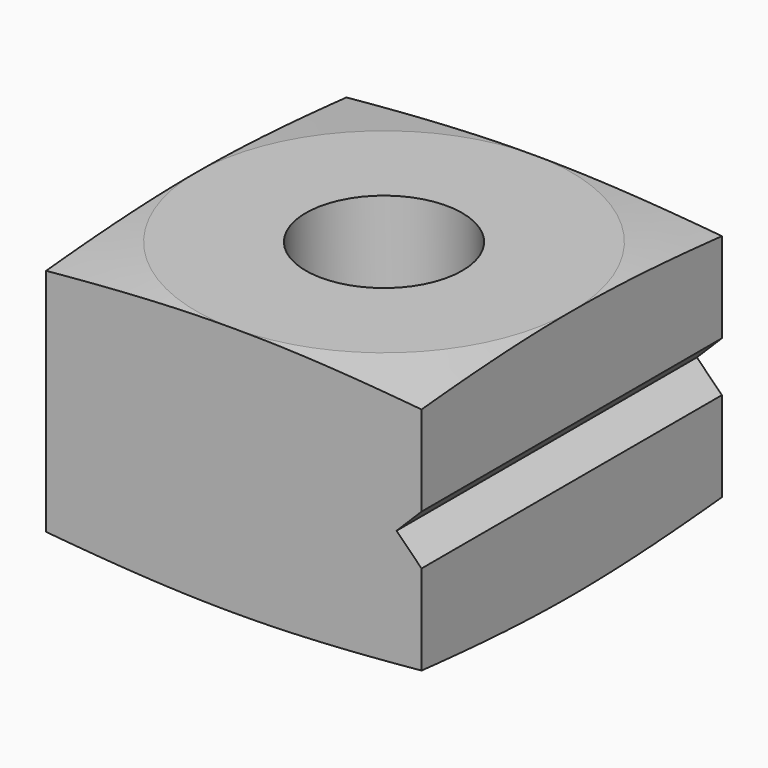
from build123d import *

# Parameters (mm, degrees)
F0_W      = 19.05
F0_H      = 19.05
F1_DEPTH  = 12.7
F2_R      = 3.96875
F3_DEPTH  = 12.701
F12_DEPTH = 19.05


with BuildPart() as f1:
    # F0 (on Top) → F1 (new body)
    with BuildSketch(Plane.XY):
        with Locations((-9.525, 9.525)):
            Rectangle(F0_W, F0_H)
    extrude(amount=F1_DEPTH)

    # F2 (on face) → F3 (cut, through all)
    with BuildSketch(Plane.XY.offset(12.7)):
        with Locations((-9.525, 9.525)):
            Circle(F2_R)
    extrude(amount=-F3_DEPTH, mode=Mode.SUBTRACT)

    # F7: sweep along a path in F4
    with BuildLine(Plane.XY.offset(12.7)) as f7_path:
        CenterArc((-9.525, 9.525), 9.525, 0, 360)
    # F6 (on mid) → F7 (sweep, cut)
    with BuildSketch(Plane.XZ.offset(-9.525)):
        Polygon((-24.6209054321, 11.966576386), (-19.05, 12.7), (-24.6209054321, 13.433423614), align=None)
    sweep(path=f7_path.line, mode=Mode.SUBTRACT)

    # F9 (on mid) → F10 (revolve, cut)
    with BuildSketch(Plane.XZ.offset(-9.525)):
        Polygon((8.2884986839, 0), (0, 0), (8.2884986839, -1.091201553), align=None)
        Polygon((8.2884986839, 1.091201553), (0, 0), (8.2884986839, 0), align=None)
    revolve(axis=Axis((-9.525, 9.525, 12.7), (0, 0, 1)), mode=Mode.SUBTRACT)

    # F11 (on face) → F12 (cut)
    with BuildSketch(Plane.XZ):
        Polygon((0, 7.62), (-1.27, 6.35), (0, 5.08), align=None)
    extrude(amount=-F12_DEPTH, mode=Mode.SUBTRACT)


solid = f1.part
